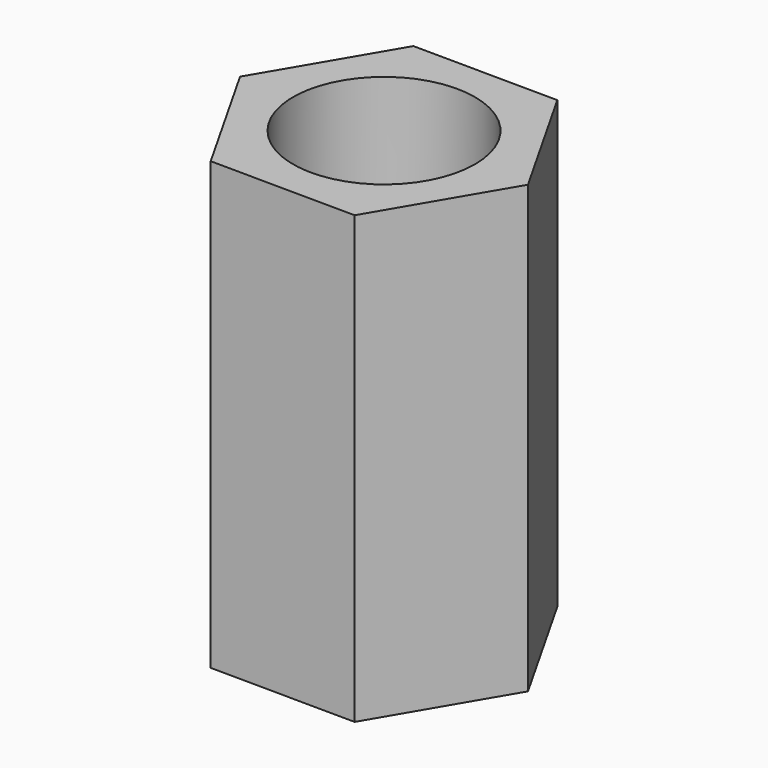
from build123d import *

# Parameters (mm, degrees)
F0_R          = 10.36207
F1_DEPTH      = 25.4
F1_DEPTH_BACK = 25.4


with BuildPart() as f1:
    # F0 (on Top) → F1 (new body, two sides)
    with BuildSketch(Plane.XY) as f1_sk:
        Polygon((-8.138032, 14.350934), (-16.49729, 0.127724), (-8.359257, -14.22321), (8.138032, -14.350934), (16.49729, -0.127724), (8.359257, 14.22321), align=None)
        Circle(F0_R, mode=Mode.SUBTRACT)
    extrude(amount=F1_DEPTH)
    extrude(f1_sk.sketch, amount=-F1_DEPTH_BACK)


solid = f1.part
